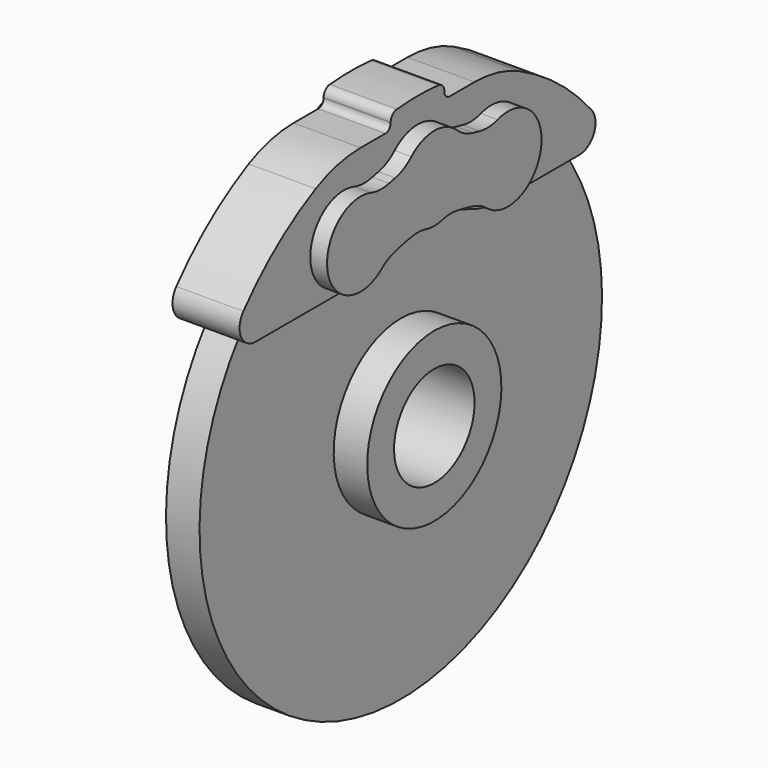
from build123d import *

# Parameters (mm, degrees)
F3_DEPTH      = 0.635
F5_DEPTH      = 2.032
F7_DEPTH      = 2.54
F7_DEPTH_BACK = 0.508


with BuildPart() as f1:
    # F0 (on Front) → F1 (revolve)
    with BuildSketch(Plane.XZ):
        Polygon((0.508, 5.08), (0, 4.572), (0, 1.524), (2.54, 1.524), (2.54, 2.54), (1.524, 2.54), (1.524, 7.62), (0.508, 7.62), align=None)
    revolve(axis=Axis((0.904452, 0, 0), (1, 0, 0)))

    # F2 (on Right) → F3 (cut)
    with BuildSketch(Plane.YZ):
        with BuildLine():
            Line((-1.095001, 7.166156), (0.149968, 5.388156))
            ThreePointArc((0.149968, 5.388156), (0.195358, 5.34835), (0.254, 5.334))
            Line((0.254, 5.334), (0.316015, 5.334))
            ThreePointArc((0.316015, 5.334), (0.428666, 5.402358), (0.420048, 5.533844))
            Line((0.420048, 5.533844), (-0.824921, 7.311844))
            ThreePointArc((-0.824921, 7.311844), (-0.870312, 7.35165), (-0.928954, 7.366))
            Line((-0.928954, 7.366), (-0.990969, 7.366))
            ThreePointArc((-0.990969, 7.366), (-1.103619, 7.297642), (-1.095001, 7.166156))
        make_face()
        with BuildLine():
            Line((-3.235311, 4.509172), (-5.331889, 5.070948))
            ThreePointArc((-5.331889, 5.070948), (-5.392247, 5.072265), (-5.446393, 5.045563))
            Line((-5.446393, 5.045563), (-5.4939, 5.005701))
            ThreePointArc((-5.4939, 5.005701), (-5.536255, 4.880925), (-5.445136, 4.785741))
            Line((-5.445136, 4.785741), (-3.348558, 4.223964))
            ThreePointArc((-3.348558, 4.223964), (-3.2882, 4.222647), (-3.234054, 4.249349))
            Line((-3.234054, 4.249349), (-3.186547, 4.289212))
            ThreePointArc((-3.186547, 4.289212), (-3.144192, 4.413987), (-3.235311, 4.509172))
        make_face()
        with BuildLine():
            Line((-5.376832, 1.374608), (-7.344007, 0.457299))
            ThreePointArc((-7.344007, 0.457299), (-7.39109, 0.419511), (-7.415405, 0.364252))
            Line((-7.415405, 0.364252), (-7.426174, 0.303179))
            ThreePointArc((-7.426174, 0.303179), (-7.378416, 0.180369), (-7.247431, 0.166024))
            Line((-7.247431, 0.166024), (-5.280256, 1.083333))
            ThreePointArc((-5.280256, 1.083333), (-5.233173, 1.121121), (-5.208858, 1.176381))
            Line((-5.208858, 1.176381), (-5.198089, 1.237454))
            ThreePointArc((-5.198089, 1.237454), (-5.245847, 1.360263), (-5.376832, 1.374608))
        make_face()
        with BuildLine():
            Line((-5.002473, -2.40315), (-5.919782, -4.370325))
            ThreePointArc((-5.919782, -4.370325), (-5.93156, -4.429537), (-5.914666, -4.487497))
            Line((-5.914666, -4.487497), (-5.883659, -4.541204))
            ThreePointArc((-5.883659, -4.541204), (-5.768134, -4.604583), (-5.658572, -4.531377))
            Line((-5.658572, -4.531377), (-4.741264, -2.564202))
            ThreePointArc((-4.741264, -2.564202), (-4.729486, -2.50499), (-4.74638, -2.44703))
            Line((-4.74638, -2.44703), (-4.777387, -2.393323))
            ThreePointArc((-4.777387, -2.393323), (-4.892912, -2.329944), (-5.002473, -2.40315))
        make_face()
        with BuildLine():
            Line((-2.287402, -5.056448), (-1.725626, -7.153026))
            ThreePointArc((-1.725626, -7.153026), (-1.696587, -7.205956), (-1.646389, -7.239497))
            Line((-1.646389, -7.239497), (-1.588114, -7.260707))
            ThreePointArc((-1.588114, -7.260707), (-1.458878, -7.235), (-1.422005, -7.108496))
            Line((-1.422005, -7.108496), (-1.983781, -5.011918))
            ThreePointArc((-1.983781, -5.011918), (-2.01282, -4.958988), (-2.063017, -4.925447))
            Line((-2.063017, -4.925447), (-2.121293, -4.904237))
            ThreePointArc((-2.121293, -4.904237), (-2.250529, -4.929944), (-2.287402, -5.056448))
        make_face()
        with BuildLine():
            Line((1.497971, -5.343777), (3.275971, -6.588746))
            ThreePointArc((3.275971, -6.588746), (3.332238, -6.610628), (3.392251, -6.604055))
            Line((3.392251, -6.604055), (3.450527, -6.582844))
            ThreePointArc((3.450527, -6.582844), (3.533004, -6.48008), (3.479934, -6.359471))
            Line((3.479934, -6.359471), (1.701934, -5.114502))
            ThreePointArc((1.701934, -5.114502), (1.645667, -5.092621), (1.585654, -5.099194))
            Line((1.585654, -5.099194), (1.527378, -5.120404))
            ThreePointArc((1.527378, -5.120404), (1.444901, -5.223168), (1.497971, -5.343777))
        make_face()
        with BuildLine():
            Line((4.582426, -3.130694), (6.744704, -2.941519))
            ThreePointArc((6.744704, -2.941519), (6.801872, -2.922113), (6.84362, -2.878503))
            Line((6.84362, -2.878503), (6.874628, -2.824796))
            ThreePointArc((6.874628, -2.824796), (6.871753, -2.693059), (6.753574, -2.634779))
            Line((6.753574, -2.634779), (4.591296, -2.823954))
            ThreePointArc((4.591296, -2.823954), (4.534128, -2.84336), (4.49238, -2.88697))
            Line((4.49238, -2.88697), (4.461372, -2.940677))
            ThreePointArc((4.461372, -2.940677), (4.464246, -3.072414), (4.582426, -3.130694))
        make_face()
        with BuildLine():
            Line((5.522713, 0.547276), (7.057515, 2.082077))
            ThreePointArc((7.057515, 2.082077), (7.088834, 2.13369), (7.092783, 2.193933))
            Line((7.092783, 2.193933), (7.082014, 2.255006))
            ThreePointArc((7.082014, 2.255006), (6.995133, 2.354075), (6.867141, 2.322756))
            Line((6.867141, 2.322756), (5.332339, 0.787954))
            ThreePointArc((5.332339, 0.787954), (5.30102, 0.736341), (5.297071, 0.676098))
            Line((5.297071, 0.676098), (5.30784, 0.615025))
            ThreePointArc((5.30784, 0.615025), (5.394721, 0.515956), (5.522713, 0.547276))
        make_face()
        with BuildLine():
            Line((3.878862, 3.969169), (4.068036, 6.131447))
            ThreePointArc((4.068036, 6.131447), (4.058852, 6.191116), (4.023154, 6.239803))
            Line((4.023154, 6.239803), (3.975647, 6.279666))
            ThreePointArc((3.975647, 6.279666), (3.845412, 6.299711), (3.767496, 6.193447))
            Line((3.767496, 6.193447), (3.578322, 4.031169))
            ThreePointArc((3.578322, 4.031169), (3.587506, 3.9715), (3.623204, 3.922813))
            Line((3.623204, 3.922813), (3.670711, 3.88295))
            ThreePointArc((3.670711, 3.88295), (3.800946, 3.862905), (3.878862, 3.969169))
        make_face()
    extrude(amount=F3_DEPTH, mode=Mode.SUBTRACT)

    # F4 (on Right) → F5 (join)
    with BuildSketch(Plane.YZ):
        with BuildLine():
            ThreePointArc((6.129773, 4.572), (6.682726, 4.924977), (6.595325, 5.575139))
            ThreePointArc((6.595325, 5.575139), (5.335655, 6.790529), (3.856784, 7.726947))
            ThreePointArc((3.856784, 7.726947), (3.029335, 8.026382), (2.155261, 8.128))
            Line((2.155261, 8.128), (1.2192, 8.128))
            ThreePointArc((1.2192, 8.128), (1.075516, 8.187516), (1.016, 8.3312))
            Line((1.016, 8.3312), (1.016, 8.347292))
            ThreePointArc((1.016, 8.347292), (0.949591, 8.518539), (0.785091, 8.60024))
            ThreePointArc((0.785091, 8.60024), (0, 8.636), (-0.785091, 8.60024))
            ThreePointArc((-0.785091, 8.60024), (-0.949591, 8.518539), (-1.016, 8.347292))
            Line((-1.016, 8.347292), (-1.016, 8.3312))
            ThreePointArc((-1.016, 8.3312), (-1.075516, 8.187516), (-1.2192, 8.128))
            Line((-1.2192, 8.128), (-2.155261, 8.128))
            ThreePointArc((-2.155261, 8.128), (-3.029335, 8.026382), (-3.856784, 7.726947))
            ThreePointArc((-3.856784, 7.726947), (-5.335655, 6.790529), (-6.595325, 5.575139))
            ThreePointArc((-6.595325, 5.575139), (-6.682726, 4.924977), (-6.129773, 4.572))
            Line((-6.129773, 4.572), (-3.07172, 4.572))
            ThreePointArc((-3.07172, 4.572), (-2.557512, 4.624594), (-2.064599, 4.780197))
            ThreePointArc((-2.064599, 4.780197), (-1.054126, 5.099183), (0, 5.207))
            ThreePointArc((0, 5.207), (1.054126, 5.099183), (2.064599, 4.780197))
            ThreePointArc((2.064599, 4.780197), (2.557512, 4.624594), (3.07172, 4.572))
            Line((3.07172, 4.572), (6.129773, 4.572))
        make_face()
    extrude(amount=F5_DEPTH)

    # F6 (on Right) → F7 (join, two sides)
    with BuildSketch(Plane.YZ) as f7_sk:
        with BuildLine():
            ThreePointArc((-0.820935, 5.398943), (-0.5667, 5.411796), (-0.31501, 5.373687))
            ThreePointArc((-0.31501, 5.373687), (0, 5.334), (0.31501, 5.373687))
            ThreePointArc((0.31501, 5.373687), (0.5667, 5.411796), (0.820935, 5.398943))
            ThreePointArc((0.820935, 5.398943), (1.181977, 5.331552), (1.537673, 5.240046))
            ThreePointArc((1.537673, 5.240046), (1.773519, 5.14425), (1.985523, 5.003344))
            ThreePointArc((1.985523, 5.003344), (2.114579, 4.910364), (2.254246, 4.834246))
            ThreePointArc((2.254246, 4.834246), (4.058635, 5.908268), (2.397485, 7.192762))
            ThreePointArc((2.397485, 7.192762), (2.055312, 7.131304), (1.709293, 7.164934))
            ThreePointArc((1.709293, 7.164934), (1.594294, 7.191396), (1.478886, 7.216014))
            ThreePointArc((1.478886, 7.216014), (1.151074, 7.331769), (0.866933, 7.532077))
            ThreePointArc((0.866933, 7.532077), (0, 7.874), (-0.866933, 7.532077))
            ThreePointArc((-0.866933, 7.532077), (-1.151074, 7.331769), (-1.478886, 7.216014))
            ThreePointArc((-1.478886, 7.216014), (-1.594294, 7.191396), (-1.709293, 7.164934))
            ThreePointArc((-1.709293, 7.164934), (-2.055312, 7.131304), (-2.397485, 7.192762))
            ThreePointArc((-2.397485, 7.192762), (-4.039069, 5.750414), (-1.985523, 5.003344))
            ThreePointArc((-1.985523, 5.003344), (-1.773519, 5.14425), (-1.537673, 5.240046))
            ThreePointArc((-1.537673, 5.240046), (-1.181977, 5.331552), (-0.820935, 5.398943))
        make_face()
    extrude(amount=F7_DEPTH)
    extrude(f7_sk.sketch, amount=-F7_DEPTH_BACK)


solid = f1.part
